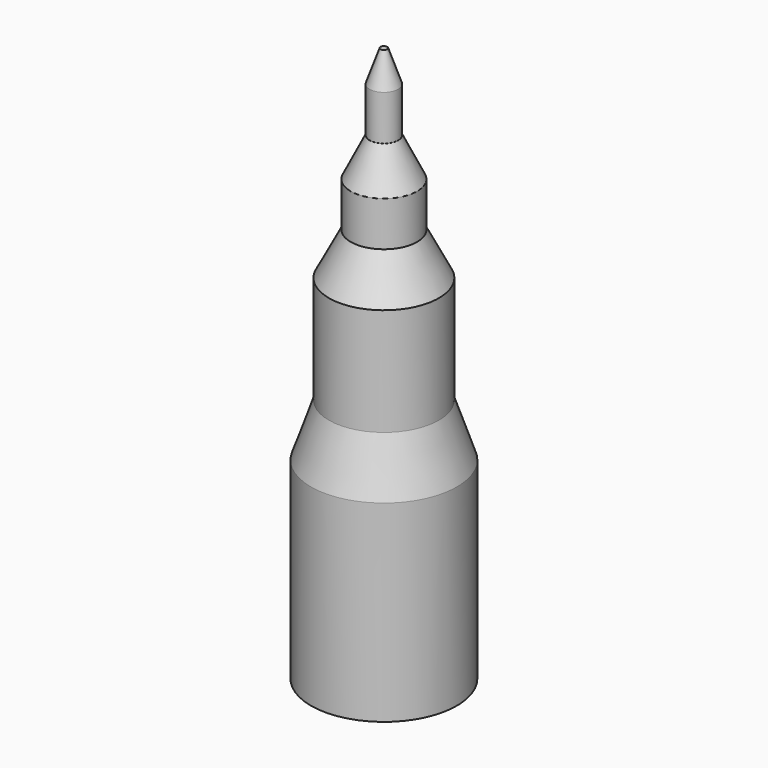
from build123d import *


with BuildPart() as f1:
    # F0 (on Front) → F1 (revolve)
    with BuildSketch(Plane.XZ):
        Polygon((-22.60869, -16.353836), (-22.60869, -76.035559), (0, -76.035559), (0, -16.353836), (0, 0), (0, 33.325061), (0, 46.437956), (0, 60.250759), (0, 72.239228), (0, 86.182341), (0, 95.955551), (-1.04436, 95.955551), (-4.432406, 86.182341), (-4.432406, 72.239228), (-10.296331, 60.250759), (-10.296331, 46.437956), (-17.049059, 33.325061), (-17.049059, 0), align=None)
    revolve(axis=Axis((0, 0, 8.563869), (0, 0, 1)))


solid = f1.part
